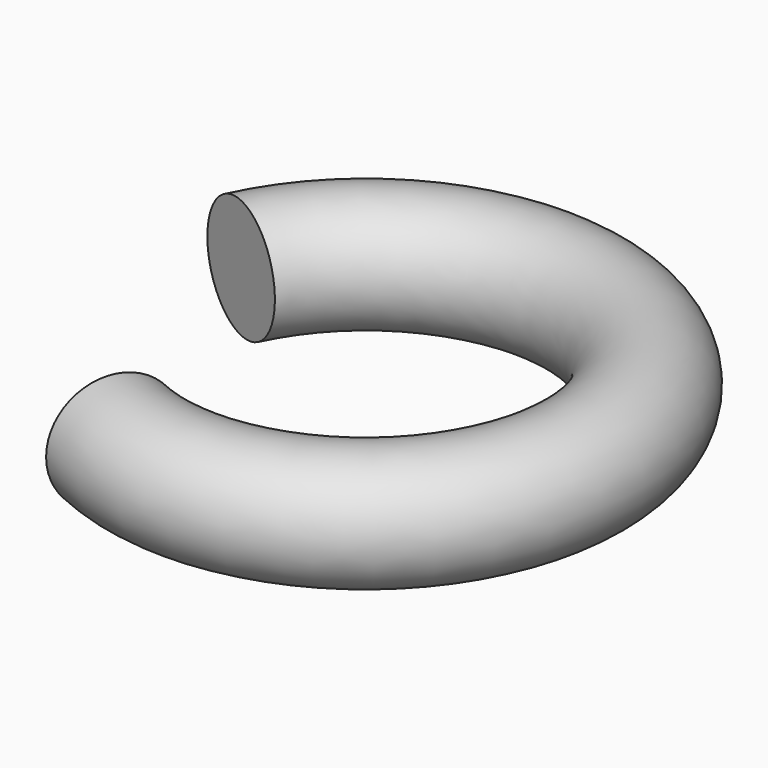
from build123d import *

# Parameters (mm, degrees)
F0_R          = 10
F1_ANGLE_BACK = 155
F1_ANGLE      = 270


with BuildPart() as f1:
    # F0 (on Front) → F1 (revolve)
    with BuildSketch(Plane.XZ, mode=Mode.PRIVATE) as f1_sk:
        with Locations((36.8768908083, 0)):
            Circle(F0_R)
    revolve(f1_sk.sketch.rotate(Axis((0, 0, -2.9739420861), (0, 0, -1)), -F1_ANGLE_BACK), axis=Axis((0, 0, -2.9739420861), (0, 0, -1)), revolution_arc=F1_ANGLE)


solid = f1.part
